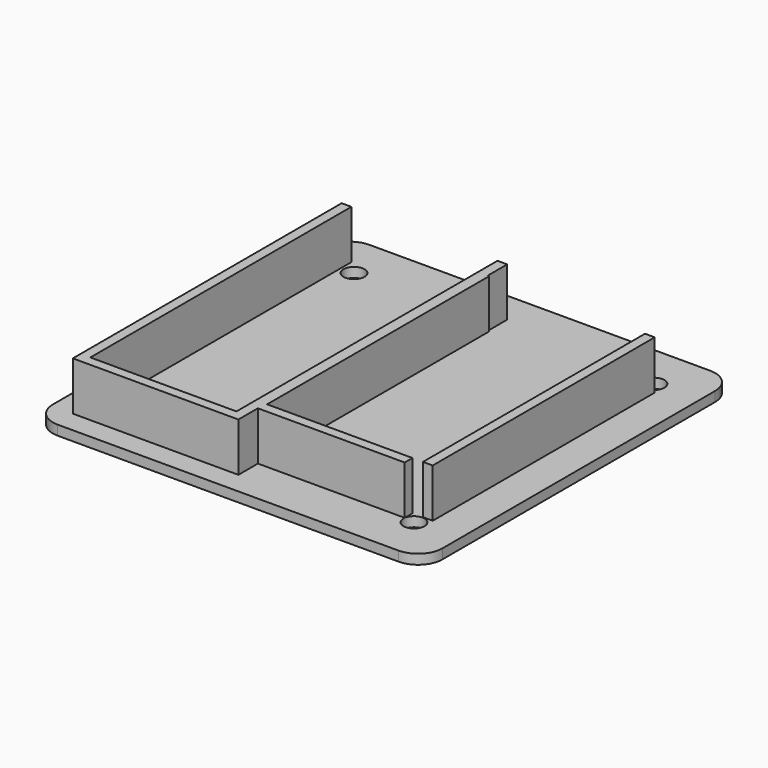
from build123d import *

# Parameters (mm, degrees)
F0_R     = 2.15
F0_R_2   = 1.65
F1_DEPTH = 2
F2_W     = 2
F2_H     = 67
F2_H_2   = 57
F2_W_2   = 0.3
F3_DEPTH = 10


with BuildPart() as f1:
    # F0 (on Top) → F1 (new body)
    with BuildSketch(Plane.XY):
        with BuildLine():
            Line((-35, -40), (35, -40))
            ThreePointArc((35, -40), (38.5355339059, -38.5355339059), (40, -35))
            Line((40, -35), (40, 35))
            ThreePointArc((40, 35), (38.5355339059, 38.5355339059), (35, 40))
            Line((35, 40), (-35, 40))
            ThreePointArc((-35, 40), (-38.5355339059, 38.5355339059), (-40, 35))
            Line((-40, 35), (-40, -35))
            ThreePointArc((-40, -35), (-38.5355339059, -38.5355339059), (-35, -40))
        make_face()
        with Locations((-30.8, -30.8)):
            Circle(F0_R, mode=Mode.SUBTRACT)
        with Locations((30.8, -30.8)):
            Circle(F0_R, mode=Mode.SUBTRACT)
        with Locations((0, -20)):
            Circle(F0_R_2, mode=Mode.SUBTRACT)
        with Locations((-20, 0)):
            Circle(F0_R_2, mode=Mode.SUBTRACT)
        with Locations((-30.8, 30.8)):
            Circle(F0_R, mode=Mode.SUBTRACT)
        with Locations((20, 0)):
            Circle(F0_R_2, mode=Mode.SUBTRACT)
        with Locations((0, 20)):
            Circle(F0_R_2, mode=Mode.SUBTRACT)
        with Locations((30.8, 30.8)):
            Circle(F0_R, mode=Mode.SUBTRACT)
        with Locations((-20, 0)):
            Circle(F0_R_2)
        with Locations((0, -20)):
            Circle(F0_R_2)
        with Locations((20, 0)):
            Circle(F0_R_2)
        with Locations((0, 20)):
            Circle(F0_R_2)
    extrude(amount=F1_DEPTH)

    # F2 (on face) → F3 (join)
    with BuildSketch(Plane.XY.offset(2)):
        with Locations((-34.5, 0)):
            Rectangle(F2_W, F2_H)
        with Locations((31.8, 0)):
            Rectangle(F2_W, F2_H_2)
        Polygon((-3.5, -33.5), (-33.5, -33.5), (-35.5, -33.5), (-35.5, -35.5), (-3.5, -35.5), align=None)
        Polygon((-3.5, 33.5), (-3.5, -33.5), (-3.5, -35.5), (-1.5, -35.5), (-1.5, -30.5), (-1.5, -28.5), (-1.5, 28.5), (-1.5, 33.5), align=None)
        Polygon((-1.5, -28.5), (-1.5, -30.5), (28.65, -30.5), (28.65, -28.5), (-1.2, -28.5), align=None)
        with Locations((-1.35, 0)):
            Rectangle(F2_W_2, F2_H_2)
    extrude(amount=F3_DEPTH)


solid = f1.part
